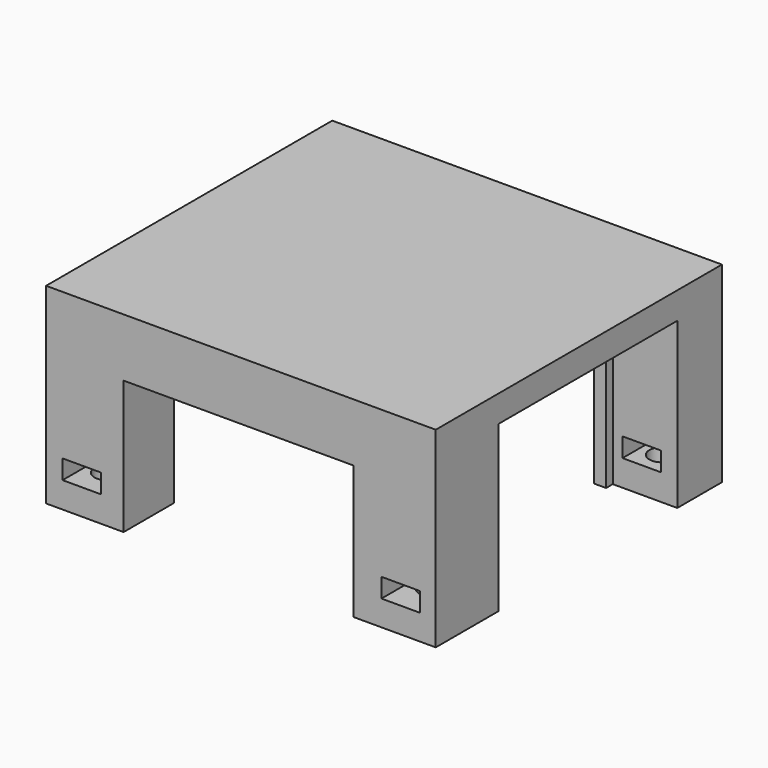
from build123d import *

# Parameters (mm, degrees)
SKETCH_W        = 61
SKETCH_H        = 30
PAD_DEPTH       = 56
SKETCH003_W     = 40.961635
SKETCH003_H     = 36.049525
POCKET_DEPTH    = 29.8
SKETCH004_W     = 36
SKETCH004_H     = 21
POCKET001_DEPTH = 10
SKETCH005_W     = 26
SKETCH005_H     = 35
POCKET002_DEPTH = 10.1
SKETCH006_W     = 35
SKETCH006_H     = 29.765225
POCKET003_DEPTH = 10.1
SKETCH007_W     = 15
SKETCH007_H     = 33
POCKET004_DEPTH = 10.1
SKETCH009_R     = 2
POCKET005_DEPTH = 5
SKETCH010_R     = 2
POCKET006_DEPTH = 15
SKETCH011_R     = 2
POCKET007_DEPTH = 15
SKETCH012_R     = 2
POCKET008_DEPTH = 15
SKETCH013_W     = 6
SKETCH013_H     = 3
POCKET009_DEPTH = 10
SKETCH014_W     = 6
SKETCH014_H     = 3
POCKET010_DEPTH = 10
SKETCH015_W     = 6
SKETCH015_H     = 3
POCKET011_DEPTH = 10
SKETCH016_W     = 6
SKETCH016_H     = 3
POCKET012_DEPTH = 10


with BuildPart() as part:
    # Sketch → Pad (new body)
    with BuildSketch(Plane.XZ):
        with Locations((9.874064, -12.009427)):
            Rectangle(SKETCH_W, SKETCH_H)
    extrude(amount=PAD_DEPTH)

    # Sketch003 → Pocket (cut)
    with BuildSketch(Plane(origin=(0, 0, -27.009427), x_dir=(1, 0, 0), z_dir=(0, 0, -1))):
        with Locations((9.892656, 28.067419)):
            Rectangle(SKETCH003_W, SKETCH003_H)
    extrude(amount=-POCKET_DEPTH, mode=Mode.SUBTRACT)

    # Sketch004 → Pocket001 (cut)
    with BuildSketch(Plane.XZ.offset(56)):
        with Locations((9.508816, -16.629091)):
            Rectangle(SKETCH004_W, SKETCH004_H)
    extrude(amount=-POCKET001_DEPTH, mode=Mode.SUBTRACT)

    # Sketch005 → Pocket002 (cut)
    with BuildSketch(Plane(origin=(40.374064, 0, 0), x_dir=(0, 0, 1), z_dir=(1, 0, 0))):
        with Locations((-14.2042, 26.235572)):
            Rectangle(SKETCH005_W, SKETCH005_H)
    extrude(amount=-POCKET002_DEPTH, mode=Mode.SUBTRACT)

    # Sketch006 → Pocket003 (cut)
    with BuildSketch(Plane(origin=(0, 0, 0), x_dir=(1, 0, 0), z_dir=(0, 1, 0))):
        with Locations((10.843993, 12.155679)):
            Rectangle(SKETCH006_W, SKETCH006_H)
    extrude(amount=-POCKET003_DEPTH, mode=Mode.SUBTRACT)

    # Sketch007 → Pocket004 (cut)
    with BuildSketch(Plane(origin=(-20.625936, 0, 0), x_dir=(0, 0, -1), z_dir=(-1, 0, 0))):
        with Locations((19.549922, 27.327213)):
            Rectangle(SKETCH007_W, SKETCH007_H)
    extrude(amount=-POCKET004_DEPTH, mode=Mode.SUBTRACT)

    # Sketch009 → Pocket005 (cut)
    with BuildSketch(Plane(origin=(0, 0, -27.009427), x_dir=(1, 0, 0), z_dir=(0, 0, -1))):
        with Locations((-15.002267, 51.059483)):
            Circle(SKETCH009_R)
    extrude(amount=-POCKET005_DEPTH, mode=Mode.SUBTRACT)

    # Sketch010 → Pocket006 (cut)
    with BuildSketch(Plane(origin=(0, 0, -27.009427), x_dir=(1, 0, 0), z_dir=(0, 0, -1))):
        with Locations((35.071098, 50.12505)):
            Circle(SKETCH010_R)
    extrude(amount=-POCKET006_DEPTH, mode=Mode.SUBTRACT)

    # Sketch011 → Pocket007 (cut)
    with BuildSketch(Plane(origin=(0, 0, -27.009427), x_dir=(1, 0, 0), z_dir=(0, 0, -1))):
        with Locations((-15.214926, 4.978576)):
            Circle(SKETCH011_R)
    extrude(amount=-POCKET007_DEPTH, mode=Mode.SUBTRACT)

    # Sketch012 → Pocket008 (cut)
    with BuildSketch(Plane(origin=(0, 0, -27.009427), x_dir=(1, 0, 0), z_dir=(0, 0, -1))):
        with Locations((35.045578, 5.033976)):
            Circle(SKETCH012_R)
    extrude(amount=-POCKET008_DEPTH, mode=Mode.SUBTRACT)

    # Sketch013 → Pocket009 (cut)
    with BuildSketch(Plane.XZ.offset(56)):
        with Locations((34.876442, -21.54185)):
            Rectangle(SKETCH013_W, SKETCH013_H)
    extrude(amount=-POCKET009_DEPTH, mode=Mode.SUBTRACT)

    # Sketch014 → Pocket010 (cut)
    with BuildSketch(Plane.XZ.offset(56)):
        with Locations((-15.041702, -21.455929)):
            Rectangle(SKETCH014_W, SKETCH014_H)
    extrude(amount=-POCKET010_DEPTH, mode=Mode.SUBTRACT)

    # Sketch015 → Pocket011 (cut)
    with BuildSketch(Plane(origin=(0, 0, 0), x_dir=(1, 0, 0), z_dir=(0, 1, 0))):
        with Locations((-15.06067, 21.44039)):
            Rectangle(SKETCH015_W, SKETCH015_H)
    extrude(amount=-POCKET011_DEPTH, mode=Mode.SUBTRACT)

    # Sketch016 → Pocket012 (cut)
    with BuildSketch(Plane(origin=(0, 0, 0), x_dir=(1, 0, 0), z_dir=(0, 1, 0))):
        with Locations((34.804899, 21.419892)):
            Rectangle(SKETCH016_W, SKETCH016_H)
    extrude(amount=-POCKET012_DEPTH, mode=Mode.SUBTRACT)


solid = part.part
